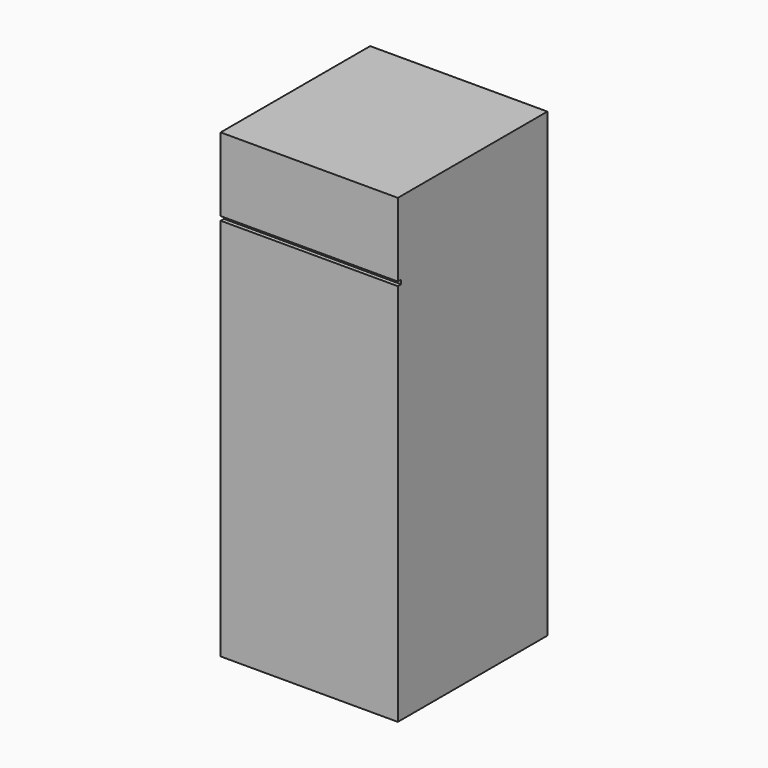
from build123d import *

# Parameters (mm, degrees)
F0_W     = 549.402
F0_H     = 579.374
F1_DEPTH = 1430.274
F2_W     = 12.7
F2_H     = 12.7
F3_DEPTH = 549.403


with BuildPart() as f1:
    # F0 (on Top) → F1 (new body)
    with BuildSketch(Plane.XY):
        with Locations((-0.386989, 10.351141)):
            Rectangle(F0_W, F0_H)
    extrude(amount=F1_DEPTH)

    # F2 (on face) → F3 (cut, through all)
    with BuildSketch(Plane(origin=(-275.087989, 0, 0), x_dir=(0, -1, 0), z_dir=(-1, 0, 0))):
        with Locations((272.985859, 1195.513208)):
            Rectangle(F2_W, F2_H)
    extrude(amount=-F3_DEPTH, mode=Mode.SUBTRACT)


solid = f1.part
